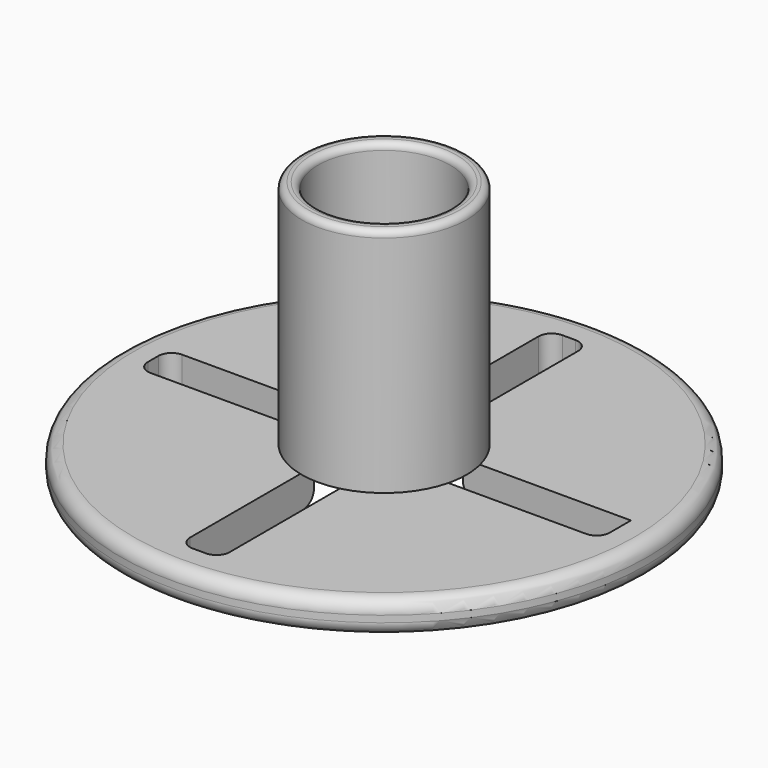
from build123d import *

# Parameters (mm, degrees)
SKETCH_R        = 40
PAD_DEPTH       = 5
SKETCH001_R     = 12.5
PAD001_DEPTH    = 35
SKETCH002_R     = 10
POCKET_DEPTH    = 40.001
POCKET001_DEPTH = 5
FILLET_R        = 2
FILLET001_R     = 2
FILLET002_R     = 1
FILLET003_R     = 2


with BuildPart() as part:
    # Sketch → Pad (new body)
    with BuildSketch(Plane.XY):
        Circle(SKETCH_R)
    extrude(amount=PAD_DEPTH)

    # Sketch001 (on Face3 of Pad) → Pad001 (join)
    with BuildSketch(Plane.XY.offset(5)):
        Circle(SKETCH001_R)
    extrude(amount=PAD001_DEPTH)

    # Sketch002 (on Face5 of Pad001) → Pocket (cut, through all)
    with BuildSketch(Plane.XY.offset(40)):
        Circle(SKETCH002_R)
    extrude(amount=-POCKET_DEPTH, mode=Mode.SUBTRACT)

    # Sketch003 (on Face2 of Pocket) → Pocket001 (cut)
    with BuildSketch(Plane(origin=(0, 0, 0), x_dir=(1, 0, 0), z_dir=(0, 0, -1))):
        Polygon((-3, 35), (-3, 3), (-35, 3), (-35, -3), (-3, -3), (-3, -35), (3, -35), (3, -3), (35, -3), (35, 3), (3, 3), (3, 35), align=None)
    extrude(amount=-POCKET001_DEPTH, mode=Mode.SUBTRACT)

    # Fillet
    fillet_edges = [part.edges().sort_by_distance(p)[0] for p in [
        (-3, -35, 2.5),
        (3, -35, 2.5),
        (35, -3, 2.5),
        (-35, -3, 2.5),
        (-35, 3, 2.5),
        (-3, 35, 2.5),
        (3, 35, 2.5),
    ]]
    fillet(fillet_edges, radius=FILLET_R)

    # Fillet001
    fillet001_edges = [part.edges().sort_by_distance(p)[0] for p in [
        (7.071068, -7.071068, 0),
        (7.071068, 7.071068, 0),
        (-7.071068, 7.071068, 0),
        (-7.071068, -7.071068, 0),
    ]]
    fillet(fillet001_edges, radius=FILLET001_R)

    # Fillet002
    fillet002_edges = [part.edges().sort_by_distance(p)[0] for p in [
        (-12.5, 0, 40),
        (-10, 0, 40),
        (0, -10, 5),
        (9.884177, -1.517577, 5),
        (0, 10, 5),
        (-10, 0, 5),
    ]]
    fillet(fillet002_edges, radius=FILLET002_R)

    # Fillet003
    fillet003_edges = [part.edges().sort_by_distance(p)[0] for p in [
        (-40, 0, 5),
        (-40, 0, 0),
    ]]
    fillet(fillet003_edges, radius=FILLET003_R)


solid = part.part
